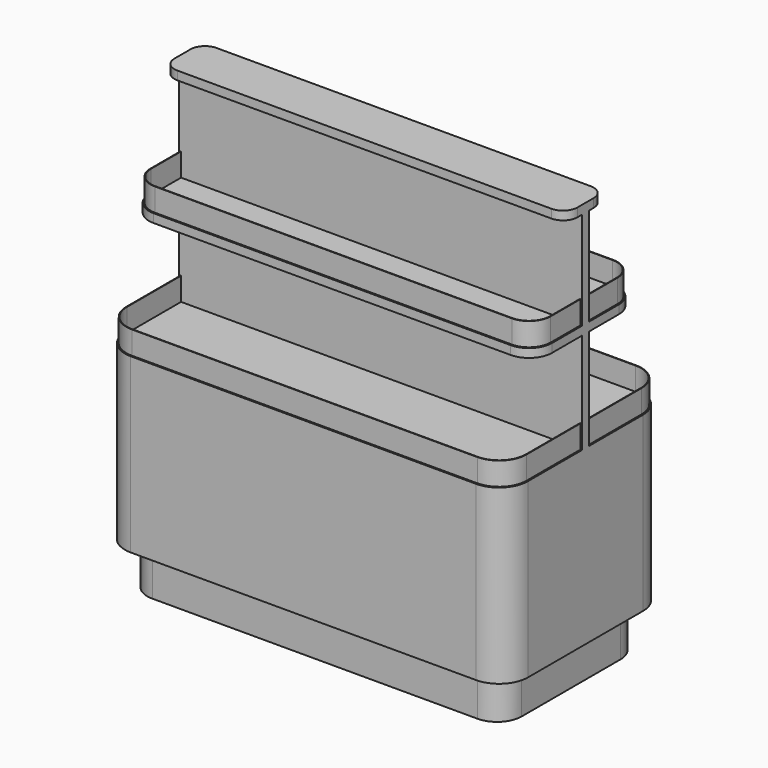
from build123d import *

# Parameters (mm, degrees)
F2_W      = 1300
F2_H      = 600
F3_DEPTH  = 150
F4_W      = 1400
F4_H      = 700
F5_DEPTH  = 600
F6_W      = 1400
F6_H      = 30
F7_DEPTH  = 750
F9_W      = 1400
F9_H      = 450
F10_DEPTH = 30
F11_W     = 1400
F11_H     = 170
F12_DEPTH = 30
F13_R     = 100
F14_R     = 85
F15_R     = 80
F16_R     = 50
F18_DEPTH = 80
F20_DEPTH = 80


with BuildPart() as f3:
    # F2 (on Top) → F3 (new body, through all)
    with BuildSketch(Plane.XY):
        Rectangle(F2_W, F2_H)
    extrude(amount=F3_DEPTH)

    # F4 (on face) → F5 (join, through all)
    with BuildSketch(Plane.XY.offset(150)):
        Rectangle(F4_W, F4_H)
    extrude(amount=F5_DEPTH)

    # F6 (on face) → F7 (join, through all)
    with BuildSketch(Plane.XY.offset(750)):
        Rectangle(F6_W, F6_H)
    extrude(amount=F7_DEPTH)

    # F9 (on plane+point) → F10 (join, through all)
    with BuildSketch(Plane.XY.offset(1100)):
        Rectangle(F9_W, F9_H)
    extrude(amount=F10_DEPTH)

    # F11 (on face) → F12 (join, through all)
    with BuildSketch(Plane.XY.offset(1500)):
        Rectangle(F11_W, F11_H)
    extrude(amount=-F12_DEPTH)

    # F13
    f13_edges = [f3.edges().sort_by_distance(p)[0] for p in [
        (700, -350, 450),
        (-700, -350, 450),
        (700, 350, 450),
        (-700, 350, 450),
    ]]
    fillet(f13_edges, radius=F13_R)

    # F14
    f14_edges = [f3.edges().sort_by_distance(p)[0] for p in [
        (-650, 300, 75),
        (-650, -300, 75),
        (650, -300, 75),
        (650, 300, 75),
    ]]
    fillet(f14_edges, radius=F14_R)

    # F15
    f15_edges = [f3.edges().sort_by_distance(p)[0] for p in [
        (700, 225, 1115),
        (-700, 225, 1115),
        (-700, -225, 1115),
        (700, -225, 1115),
    ]]
    fillet(f15_edges, radius=F15_R)

    # F16
    f16_edges = [f3.edges().sort_by_distance(p)[0] for p in [
        (700, -85, 1485),
        (700, 85, 1485),
        (-700, -85, 1485),
        (-700, 85, 1485),
    ]]
    fillet(f16_edges, radius=F16_R)


with BuildPart() as f18:
    # F17 (on face) → F18 (new body)
    with BuildSketch(Plane.XY.offset(750)):
        with BuildLine():
            ThreePointArc((-600, 345), (-667.1751442127, 317.1751442127), (-695, 250))
            Line((-695, 250), (-695, -250))
            ThreePointArc((-695, -250), (-667.1751442127, -317.1751442127), (-600, -345))
            Line((-600, -345), (600, -345))
            ThreePointArc((600, -345), (667.1751442127, -317.1751442127), (695, -250))
            Line((695, -250), (695, 250))
            ThreePointArc((695, 250), (667.1751442127, 317.1751442127), (600, 345))
            Line((600, 345), (-600, 345))
        make_face()
        with BuildLine():
            ThreePointArc((693, -250), (665.7609306503, -315.7609306503), (600, -343))
            Line((600, -343), (-600, -343))
            ThreePointArc((-600, -343), (-665.7609306503, -315.7609306503), (-693, -250))
            Line((-693, -250), (-693, 250))
            ThreePointArc((-693, 250), (-665.7609306503, 315.7609306503), (-600, 343))
            Line((-600, 343), (600, 343))
            ThreePointArc((600, 343), (665.7609306503, 315.7609306503), (693, 250))
            Line((693, 250), (693, -250))
        make_face(mode=Mode.SUBTRACT)
    extrude(amount=F18_DEPTH)


with BuildPart() as f20:
    # F19 (on face) → F20 (new body)
    with BuildSketch(Plane.XY.offset(1130)):
        with BuildLine():
            ThreePointArc((-620, 220), (-673.033008589, 198.033008589), (-695, 145))
            Line((-695, 145), (-695, 15))
            Line((-695, 15), (-695, -15))
            Line((-695, -15), (-695, -145))
            ThreePointArc((-695, -145), (-673.033008589, -198.033008589), (-620, -220))
            Line((-620, -220), (620, -220))
            ThreePointArc((620, -220), (673.033008589, -198.033008589), (695, -145))
            Line((695, -145), (695, -15))
            Line((695, -15), (695, 15))
            Line((695, 15), (695, 145))
            ThreePointArc((695, 145), (673.033008589, 198.033008589), (620, 220))
            Line((620, 220), (-620, 220))
        make_face()
        with BuildLine():
            Line((693, 145), (693, 15))
            Line((693, 15), (693, -15))
            Line((693, -15), (693, -145))
            ThreePointArc((693, -145), (671.6187950266, -196.6187950266), (620, -218))
            Line((620, -218), (-620, -218))
            ThreePointArc((-620, -218), (-671.6187950266, -196.6187950266), (-693, -145))
            Line((-693, -145), (-693, -15))
            Line((-693, -15), (-693, 15))
            Line((-693, 15), (-693, 145))
            ThreePointArc((-693, 145), (-671.6187950266, 196.6187950266), (-620, 218))
            Line((-620, 218), (620, 218))
            ThreePointArc((620, 218), (671.6187950266, 196.6187950266), (693, 145))
        make_face(mode=Mode.SUBTRACT)
    extrude(amount=F20_DEPTH)


solid = Compound([f3.part, f18.part, f20.part])
